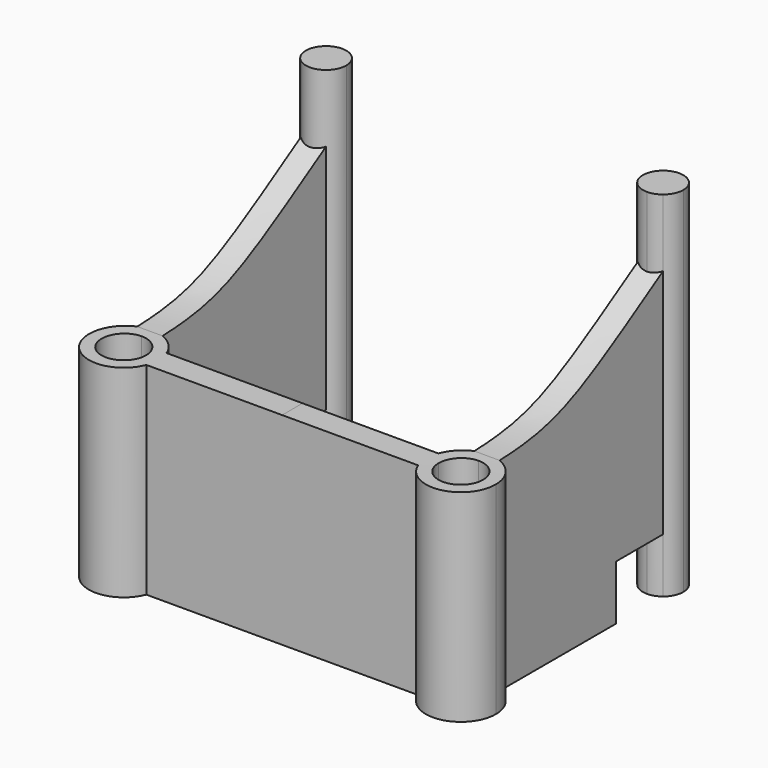
from build123d import *

# Parameters (mm, degrees)
F1_DEPTH = 50.8
F2_W     = 8.89
F2_H     = 8.255
F3_DEPTH = 38.1
F4_R     = 3.3655
F4_R_2   = 2.0955
F5_DEPTH = 2.54
F6_DEPTH = 53.34


with BuildPart() as f1:
    # F0 (on Top) → F1 (new body)
    with BuildSketch(Plane.XY):
        with BuildLine():
            Line((-27.305, 3.3655), (-27.305, 4.9141779831))
            ThreePointArc((-27.305, 4.9141779831), (-29.1268062902, -3.7268062902), (-20.4858220169, -1.905))
            Line((-20.4858220169, -1.905), (-22.0345, -1.905))
            Line((-22.0345, -1.905), (-22.0345, 0))
            ThreePointArc((-22.0345, 0), (-27.7797678721, -2.3797678721), (-25.4, 3.3655))
            Line((-25.4, 3.3655), (-27.305, 3.3655))
        make_face()
        with BuildLine():
            ThreePointArc((-23.495, 35.7206557626), (-25.4, 35.052), (-27.305, 35.7206557626))
            Line((-27.305, 35.7206557626), (-27.305, 4.9141779831))
            ThreePointArc((-27.305, 4.9141779831), (-25.4, 5.2705), (-23.495, 4.9141779831))
            Line((-23.495, 4.9141779831), (-23.495, 35.7206557626))
        make_face()
        with BuildLine():
            ThreePointArc((-23.495, 4.9141779831), (-25.4, 5.2705), (-27.305, 4.9141779831))
            Line((-27.305, 4.9141779831), (-27.305, 3.3655))
            Line((-27.305, 3.3655), (-25.4, 3.3655))
            Line((-25.4, 3.3655), (-23.495, 3.3655))
            Line((-23.495, 3.3655), (-23.495, 4.9141779831))
        make_face()
        with BuildLine():
            Line((-22.0345, -1.905), (-20.4858220169, -1.905))
            ThreePointArc((-20.4858220169, -1.905), (-20.2193463101, -0.9690188826), (-20.1295, 0))
            ThreePointArc((-20.1295, 0), (-20.2193463101, 0.9690188826), (-20.4858220169, 1.905))
            Line((-20.4858220169, 1.905), (-22.0345, 1.905))
            Line((-22.0345, 1.905), (-22.0345, 0))
            Line((-22.0345, 0), (-22.0345, -1.905))
        make_face()
        with BuildLine():
            ThreePointArc((-20.4858220169, 1.905), (-21.6731937098, 3.7268062902), (-23.495, 4.9141779831))
            Line((-23.495, 4.9141779831), (-23.495, 3.3655))
            Line((-23.495, 3.3655), (-25.4, 3.3655))
            ThreePointArc((-25.4, 3.3655), (-23.0202321279, 2.3797678721), (-22.0345, 0))
            Line((-22.0345, 0), (-22.0345, 1.905))
            Line((-22.0345, 1.905), (-20.4858220169, 1.905))
        make_face()
        with BuildLine():
            ThreePointArc((-20.1295, 0), (-20.2193463101, -0.9690188826), (-20.4858220169, -1.905))
            Line((-20.4858220169, -1.905), (0, -1.905))
            Line((0, -1.905), (0, 0))
            Line((0, 0), (0, 1.905))
            Line((0, 1.905), (-20.4858220169, 1.905))
            ThreePointArc((-20.4858220169, 1.905), (-20.2193463101, 0.9690188826), (-20.1295, 0))
        make_face()
        with BuildLine():
            Line((20.4858220169, 1.905), (0, 1.905))
            Line((0, 1.905), (0, 0))
            Line((0, 0), (20.1295, 0))
            ThreePointArc((20.1295, 0), (20.2193463101, 0.9690188826), (20.4858220169, 1.905))
        make_face()
        with BuildLine():
            Line((22.0345, 1.905), (20.4858220169, 1.905))
            ThreePointArc((20.4858220169, 1.905), (20.2193463101, 0.9690188826), (20.1295, 0))
            Line((20.1295, 0), (22.0345, 0))
            Line((22.0345, 0), (22.0345, 1.905))
        make_face()
        with BuildLine():
            Line((22.0345, -1.905), (20.4858220169, -1.905))
            ThreePointArc((20.4858220169, -1.905), (26.3690188826, -5.1806536899), (30.6705, 0))
            ThreePointArc((30.6705, 0), (29.7484751782, 2.9780755321), (27.305, 4.9141779831))
            Line((27.305, 4.9141779831), (27.305, 3.3655))
            Line((27.305, 3.3655), (25.4, 3.3655))
            ThreePointArc((25.4, 3.3655), (27.7797678721, 2.3797678721), (28.7655, 0))
            ThreePointArc((28.7655, 0), (25.4, -3.3655), (22.0345, 0))
            Line((22.0345, 0), (22.0345, -1.905))
        make_face()
        with BuildLine():
            ThreePointArc((20.1295, 0), (20.2193463101, -0.9690188826), (20.4858220169, -1.905))
            Line((20.4858220169, -1.905), (22.0345, -1.905))
            Line((22.0345, -1.905), (22.0345, 0))
            Line((22.0345, 0), (20.1295, 0))
        make_face()
        with BuildLine():
            Line((0, 0), (0, -1.905))
            Line((0, -1.905), (20.4858220169, -1.905))
            ThreePointArc((20.4858220169, -1.905), (20.2193463101, -0.9690188826), (20.1295, 0))
            Line((20.1295, 0), (0, 0))
        make_face()
        with BuildLine():
            Line((27.305, 3.3655), (27.305, 4.9141779831))
            ThreePointArc((27.305, 4.9141779831), (26.3690188826, 5.1806536899), (25.4, 5.2705))
            Line((25.4, 5.2705), (25.4, 3.3655))
            Line((25.4, 3.3655), (27.305, 3.3655))
        make_face()
        with BuildLine():
            ThreePointArc((25.4, 5.2705), (26.3690188826, 5.1806536899), (27.305, 4.9141779831))
            Line((27.305, 4.9141779831), (27.305, 35.7206557626))
            ThreePointArc((27.305, 35.7206557626), (26.4094708427, 35.2240179733), (25.4, 35.052))
            Line((25.4, 35.052), (25.4, 5.2705))
        make_face()
        with BuildLine():
            Line((23.495, 35.7206557626), (23.495, 4.9141779831))
            ThreePointArc((23.495, 4.9141779831), (24.4309811174, 5.1806536899), (25.4, 5.2705))
            Line((25.4, 5.2705), (25.4, 35.052))
            ThreePointArc((25.4, 35.052), (24.3905291573, 35.2240179733), (23.495, 35.7206557626))
        make_face()
        with BuildLine():
            ThreePointArc((25.4, 5.2705), (24.4309811174, 5.1806536899), (23.495, 4.9141779831))
            Line((23.495, 4.9141779831), (23.495, 3.3655))
            Line((23.495, 3.3655), (25.4, 3.3655))
            Line((25.4, 3.3655), (25.4, 5.2705))
        make_face()
        with BuildLine():
            ThreePointArc((23.495, 4.9141779831), (21.6731937098, 3.7268062902), (20.4858220169, 1.905))
            Line((20.4858220169, 1.905), (22.0345, 1.905))
            Line((22.0345, 1.905), (22.0345, 0))
            ThreePointArc((22.0345, 0), (23.0202321279, 2.3797678721), (25.4, 3.3655))
            Line((25.4, 3.3655), (23.495, 3.3655))
            Line((23.495, 3.3655), (23.495, 4.9141779831))
        make_face()
    extrude(amount=F1_DEPTH)

    # F2 (on Right) → F3 (cut, symmetric)
    with BuildSketch(Plane.YZ):
        with Locations((31.2756557626, 4.1275)):
            Rectangle(F2_W, F2_H)
        with BuildLine():
            Line((4.9141779831, 50.8), (4.9141779831, 30.582289685))
            add(Edge.make_bspline(
                [(4.9141779831, 30.582289685), (16.0486069147, 30.9902963569), (19.3334478065, 33.025734419), (35.7206557626, 43.18)],
                knots=[8.6020682106, 8.6020682106, 8.6020682106, 8.6020682106, 42.9134576882, 42.9134576882, 42.9134576882, 42.9134576882], degree=3))
            Line((35.7206557626, 43.18), (35.7206557626, 50.8))
            Line((35.7206557626, 50.8), (4.9141779831, 50.8))
        make_face()
        with BuildLine():
            add(Edge.make_bspline(
                [(-5.2705, 30.48), (-1.1621300748, 30.48), (2.1227108169, 30.48), (4.9141779831, 30.582289685)],
                knots=[0, 0, 0, 0, 8.6020682106, 8.6020682106, 8.6020682106, 8.6020682106], degree=3))
            Line((4.9141779831, 30.582289685), (4.9141779831, 50.8))
            Line((4.9141779831, 50.8), (-5.2705, 50.8))
            Line((-5.2705, 50.8), (-5.2705, 30.48))
        make_face()
    extrude(amount=F3_DEPTH, both=True, mode=Mode.SUBTRACT)

    # F4 (on face) → F5 (join)
    with BuildSketch(Plane(origin=(0, 0, 0), x_dir=(1, 0, 0), z_dir=(0, 0, -1))):
        with Locations((-25.4, 0)):
            Circle(F4_R)
        with Locations((-25.4, 0)):
            Circle(F4_R_2, mode=Mode.SUBTRACT)
        with Locations((-25.4, 0)):
            Circle(F4_R)
        with Locations((-25.4, 0)):
            Circle(F4_R_2, mode=Mode.SUBTRACT)
        with BuildLine():
            ThreePointArc((30.6705, 0), (26.3690188826, 5.1806536899), (20.4858220169, 1.905))
            ThreePointArc((20.4858220169, 1.905), (20.1295, 0), (20.4858220169, -1.905))
            ThreePointArc((20.4858220169, -1.905), (21.6731937098, -3.7268062902), (23.495, -4.9141779831))
            ThreePointArc((23.495, -4.9141779831), (25.4, -5.2705), (27.305, -4.9141779831))
            ThreePointArc((27.305, -4.9141779831), (29.7484751782, -2.9780755321), (30.6705, 0))
        make_face()
        with Locations((25.4, 0)):
            Circle(F4_R, mode=Mode.SUBTRACT)
        with Locations((25.4, 0)):
            Circle(F4_R)
        with Locations((25.4, 0)):
            Circle(F4_R_2, mode=Mode.SUBTRACT)
    extrude(amount=-F5_DEPTH)

    # F0 (on Top) → F6 (join)
    with BuildSketch(Plane.XY):
        with BuildLine():
            Line((-27.305, 38.1), (-27.305, 35.7206557626))
            ThreePointArc((-27.305, 35.7206557626), (-25.4, 35.052), (-23.495, 35.7206557626))
            Line((-23.495, 35.7206557626), (-23.495, 38.1))
            Line((-23.495, 38.1), (-27.305, 38.1))
        make_face()
        with BuildLine():
            ThreePointArc((-23.495, 35.7206557626), (-22.6525699281, 36.7801772846), (-22.352, 38.1))
            ThreePointArc((-22.352, 38.1), (-26.7198227154, 40.8474300719), (-27.305, 35.7206557626))
            Line((-27.305, 35.7206557626), (-27.305, 38.1))
            Line((-27.305, 38.1), (-23.495, 38.1))
            Line((-23.495, 38.1), (-23.495, 35.7206557626))
        make_face()
        with BuildLine():
            ThreePointArc((28.448, 38.1), (24.0801772846, 40.8474300719), (23.495, 35.7206557626))
            Line((23.495, 35.7206557626), (23.495, 38.1))
            Line((23.495, 38.1), (25.4, 38.1))
            Line((25.4, 38.1), (27.305, 38.1))
            Line((27.305, 38.1), (27.305, 35.7206557626))
            ThreePointArc((27.305, 35.7206557626), (28.1474300719, 36.7801772846), (28.448, 38.1))
        make_face()
        with BuildLine():
            ThreePointArc((25.4, 35.052), (26.4094708427, 35.2240179733), (27.305, 35.7206557626))
            Line((27.305, 35.7206557626), (27.305, 38.1))
            Line((27.305, 38.1), (25.4, 38.1))
            Line((25.4, 38.1), (25.4, 35.052))
        make_face()
        with BuildLine():
            Line((23.495, 38.1), (23.495, 35.7206557626))
            ThreePointArc((23.495, 35.7206557626), (24.3905291573, 35.2240179733), (25.4, 35.052))
            Line((25.4, 35.052), (25.4, 38.1))
            Line((25.4, 38.1), (23.495, 38.1))
        make_face()
    extrude(amount=F6_DEPTH)


solid = f1.part
